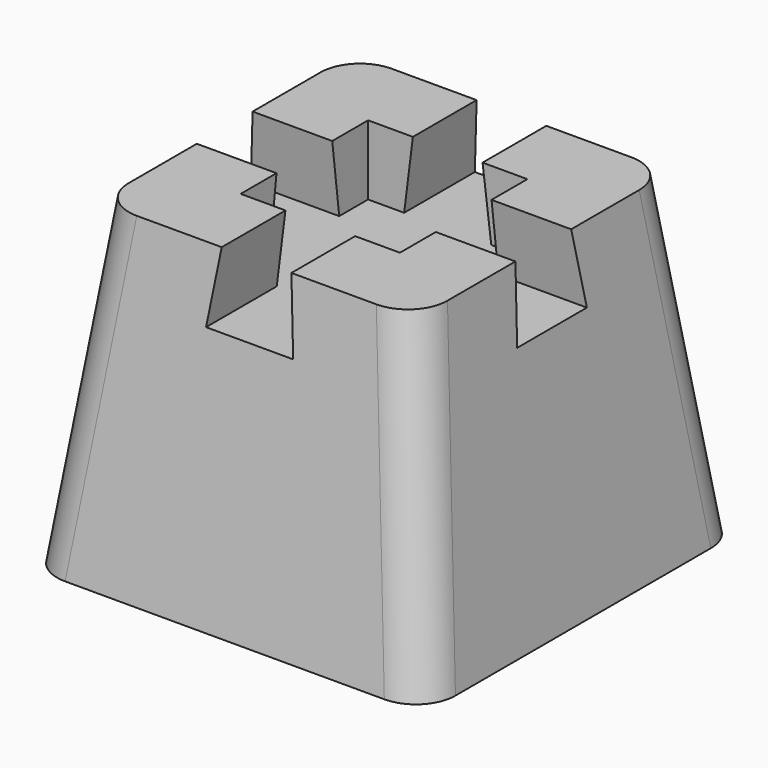
from build123d import *

# Parameters (mm, degrees)
F0_W     = 254
F0_H     = 254
F1_DEPTH = 203.2
F1_TAPER = 7.125
F2_R     = 25.4
F4_DEPTH = 44.45
F4_TAPER = -7.125
F5_W     = 101.6
F5_H     = 101.6
F6_DEPTH = 44.45


with BuildPart() as f1:
    # F0 (on Top) → F1 (new body)
    with BuildSketch(Plane.XY):
        with Locations((-0.4685800523, 11.0039802372)):
            Rectangle(F0_W, F0_H)
    extrude(amount=F1_DEPTH, taper=F1_TAPER)

    # F2
    f2_edges = [f1.edges().sort_by_distance(p)[0] for p in [
        (-114.768609, -103.296049, 101.6),
        (113.831449, -103.296049, 101.6),
        (113.831449, 125.304009, 101.600004),
        (-114.768609, 125.30401, 101.6),
    ]]
    fillet(f2_edges, radius=F2_R)

    # F3 (on face) → F4 (cut)
    with BuildSketch(Plane.XY.offset(203.2)):
        Polygon((-22.6936389397, 33.2289213498), (-102.0686389397, 33.2289213498), (-102.0686389397, -11.2210786502), (-22.6936389397, -11.2210786502), (-22.6936389397, -90.5960786502), (21.7563610603, -90.5960786502), (21.7563610603, -11.2210786502), (101.1314788352, -11.2210786502), (101.1314788352, 33.2289213498), (21.7563610603, 33.2289213498), (21.7563610603, 112.6040391247), (-22.6936389397, 112.6040391247), align=None)
    extrude(amount=-F4_DEPTH, taper=F4_TAPER, mode=Mode.SUBTRACT)

    # F5 (on face) → F6 (cut)
    with BuildSketch(Plane.XY.offset(203.2)):
        with Locations((-0.4685211648, 11.0039213498)):
            Rectangle(F5_W, F5_H)
    extrude(amount=-F6_DEPTH, mode=Mode.SUBTRACT)


solid = f1.part
